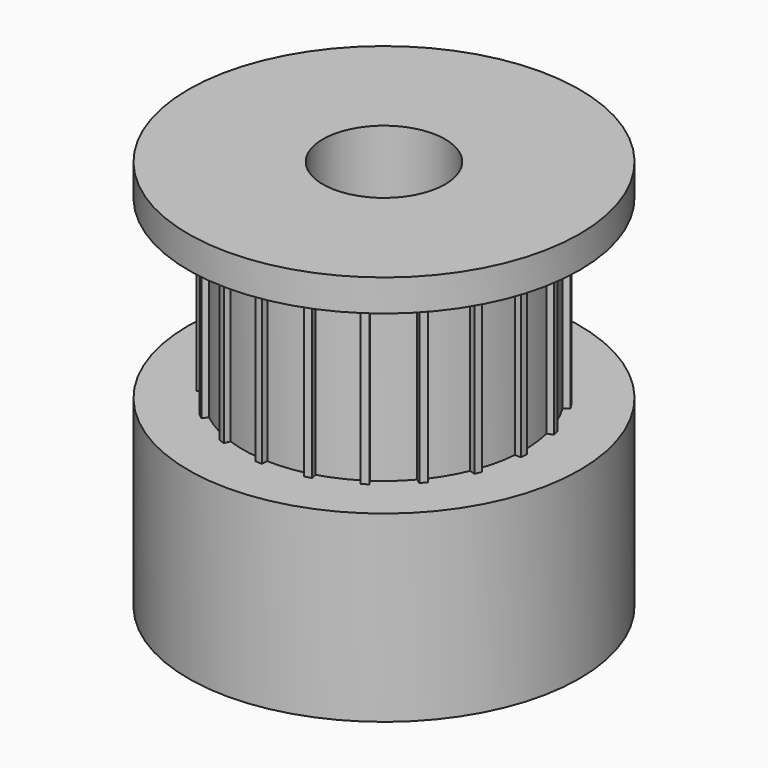
from build123d import *

# Parameters (mm, degrees)
F0_R     = 8
F0_R_2   = 2.5
F1_DEPTH = 7.5
F2_R     = 2.5
F3_DEPTH = 7.2
F4_R     = 8
F4_R_2   = 2.5
F5_DEPTH = 1.3


with BuildPart() as f1:
    # F0 (on Top) → F1 (new body)
    with BuildSketch(Plane.XY):
        Circle(F0_R)
        Circle(F0_R_2, mode=Mode.SUBTRACT)
    extrude(amount=F1_DEPTH)

    # F2 (on face) → F3 (join)
    with BuildSketch(Plane.XY.offset(7.5)):
        with BuildLine():
            Line((4.9164306089, 2.9818132181), (5.1165819993, 3.1337818439))
            ThreePointArc((5.1165819993, 3.1337818439), (5.042026432, 3.2523790461), (4.964722424, 3.3692033558))
            Line((4.964722424, 3.3692033558), (4.7530401587, 3.2359093389))
            ThreePointArc((4.7530401587, 3.2359093389), (4.2903592893, 3.8282263738), (3.7543724091, 4.3551335013))
            Line((3.7543724091, 4.3551335013), (3.8977668051, 4.5615144341))
            ThreePointArc((3.8977668051, 4.5615144341), (3.790211696, 4.6512681388), (3.6805905185, 4.7384864076))
            Line((3.6805905185, 4.7384864076), (3.5204588372, 4.5463028469))
            ThreePointArc((3.5204588372, 4.5463028469), (2.8973871515, 4.966653571), (2.2248100796, 5.3021429733))
            Line((2.2248100796, 5.3021429733), (2.2974110388, 5.5427342097))
            ThreePointArc((2.2974110388, 5.5427342097), (2.1673846314, 5.5948586988), (2.0361767688, 5.6439333949))
            Line((2.0361767688, 5.6439333949), (1.9432704762, 5.4116725563))
            ThreePointArc((1.9432704762, 5.4116725563), (1.2207985721, 5.618910112), (0.4774678383, 5.730141749))
            Line((0.4774678383, 5.730141749), (0.472168673, 5.9813925422))
            ThreePointArc((0.472168673, 5.9813925422), (0.3323988579, 5.9907855077), (0.1924478502, 5.9969128579))
            Line((0.1924478502, 5.9969128579), (0.1758612615, 5.7473100505))
            ThreePointArc((0.1758612615, 5.7473100505), (-0.5752902774, 5.7211485819), (-1.3166122817, 5.597234326))
            Line((-1.3166122817, 5.597234326), (-1.3992928524, 5.834550498))
            ThreePointArc((-1.3992928524, 5.834550498), (-1.5351244317, 5.8002924908), (-1.6701192049, 5.7628727074))
            Line((-1.6701192049, 5.7628727074), (-1.6087624789, 5.5203607932))
            ThreePointArc((-1.6087624789, 5.5203607932), (-2.3150657063, 5.2633611671), (-2.9818132181, 4.9164306089))
            Line((-2.9818132181, 4.9164306089), (-3.1337818439, 5.1165819993))
            ThreePointArc((-3.1337818439, 5.1165819993), (-3.2523790461, 5.042026432), (-3.3692033558, 4.964722424))
            Line((-3.3692033558, 4.964722424), (-3.2359093389, 4.7530401587))
            ThreePointArc((-3.2359093389, 4.7530401587), (-3.8282263738, 4.2903592893), (-4.3551335013, 3.7543724091))
            Line((-4.3551335013, 3.7543724091), (-4.5615144341, 3.8977668051))
            ThreePointArc((-4.5615144341, 3.8977668051), (-4.6512681388, 3.790211696), (-4.7384864076, 3.6805905185))
            Line((-4.7384864076, 3.6805905185), (-4.5463028469, 3.5204588372))
            ThreePointArc((-4.5463028469, 3.5204588372), (-4.966653571, 2.8973871515), (-5.3021429733, 2.2248100796))
            Line((-5.3021429733, 2.2248100796), (-5.5427342097, 2.2974110388))
            ThreePointArc((-5.5427342097, 2.2974110388), (-5.5948586988, 2.1673846314), (-5.6439333949, 2.0361767688))
            Line((-5.6439333949, 2.0361767688), (-5.4116725563, 1.9432704762))
            ThreePointArc((-5.4116725563, 1.9432704762), (-5.618910112, 1.2207985721), (-5.730141749, 0.4774678383))
            Line((-5.730141749, 0.4774678383), (-5.9813925422, 0.472168673))
            ThreePointArc((-5.9813925422, 0.472168673), (-5.9907855077, 0.3323988579), (-5.9969128579, 0.1924478502))
            Line((-5.9969128579, 0.1924478502), (-5.7473100505, 0.1758612615))
            ThreePointArc((-5.7473100505, 0.1758612615), (-5.7211485819, -0.5752902774), (-5.597234326, -1.3166122817))
            Line((-5.597234326, -1.3166122817), (-5.834550498, -1.3992928524))
            ThreePointArc((-5.834550498, -1.3992928524), (-5.8002924908, -1.5351244317), (-5.7628727074, -1.6701192049))
            Line((-5.7628727074, -1.6701192049), (-5.5203607932, -1.6087624789))
            ThreePointArc((-5.5203607932, -1.6087624789), (-5.2633611671, -2.3150657063), (-4.9164306089, -2.9818132181))
            Line((-4.9164306089, -2.9818132181), (-5.1165819993, -3.1337818439))
            ThreePointArc((-5.1165819993, -3.1337818439), (-5.042026432, -3.2523790461), (-4.964722424, -3.3692033558))
            Line((-4.964722424, -3.3692033558), (-4.7530401587, -3.2359093389))
            ThreePointArc((-4.7530401587, -3.2359093389), (-4.2903592893, -3.8282263738), (-3.7543724091, -4.3551335013))
            Line((-3.7543724091, -4.3551335013), (-3.8977668051, -4.5615144341))
            ThreePointArc((-3.8977668051, -4.5615144341), (-3.790211696, -4.6512681388), (-3.6805905185, -4.7384864076))
            Line((-3.6805905185, -4.7384864076), (-3.5204588372, -4.5463028469))
            ThreePointArc((-3.5204588372, -4.5463028469), (-2.8973871515, -4.966653571), (-2.2248100796, -5.3021429733))
            Line((-2.2248100796, -5.3021429733), (-2.2974110388, -5.5427342097))
            ThreePointArc((-2.2974110388, -5.5427342097), (-2.1673846314, -5.5948586988), (-2.0361767688, -5.6439333949))
            Line((-2.0361767688, -5.6439333949), (-1.9432704762, -5.4116725563))
            ThreePointArc((-1.9432704762, -5.4116725563), (-1.2207985721, -5.618910112), (-0.4774678383, -5.730141749))
            Line((-0.4774678383, -5.730141749), (-0.472168673, -5.9813925422))
            ThreePointArc((-0.472168673, -5.9813925422), (-0.3323988579, -5.9907855077), (-0.1924478502, -5.9969128579))
            Line((-0.1924478502, -5.9969128579), (-0.1758612615, -5.7473100505))
            ThreePointArc((-0.1758612615, -5.7473100505), (0.5752902774, -5.7211485819), (1.3166122817, -5.597234326))
            Line((1.3166122817, -5.597234326), (1.3992928524, -5.834550498))
            ThreePointArc((1.3992928524, -5.834550498), (1.5351244317, -5.8002924908), (1.6701192049, -5.7628727074))
            Line((1.6701192049, -5.7628727074), (1.6087624789, -5.5203607932))
            ThreePointArc((1.6087624789, -5.5203607932), (2.3150657063, -5.2633611671), (2.9818132181, -4.9164306089))
            Line((2.9818132181, -4.9164306089), (3.1337818439, -5.1165819993))
            ThreePointArc((3.1337818439, -5.1165819993), (3.2523790461, -5.042026432), (3.3692033558, -4.964722424))
            Line((3.3692033558, -4.964722424), (3.2359093389, -4.7530401587))
            ThreePointArc((3.2359093389, -4.7530401587), (3.8282263738, -4.2903592893), (4.3551335013, -3.7543724091))
            Line((4.3551335013, -3.7543724091), (4.5615144341, -3.8977668051))
            ThreePointArc((4.5615144341, -3.8977668051), (4.6512681388, -3.790211696), (4.7384864076, -3.6805905185))
            Line((4.7384864076, -3.6805905185), (4.5463028469, -3.5204588372))
            ThreePointArc((4.5463028469, -3.5204588372), (4.966653571, -2.8973871515), (5.3021429733, -2.2248100796))
            Line((5.3021429733, -2.2248100796), (5.5427342097, -2.2974110388))
            ThreePointArc((5.5427342097, -2.2974110388), (5.5948586988, -2.1673846314), (5.6439333949, -2.0361767688))
            Line((5.6439333949, -2.0361767688), (5.4116725563, -1.9432704762))
            ThreePointArc((5.4116725563, -1.9432704762), (5.618910112, -1.2207985721), (5.730141749, -0.4774678383))
            Line((5.730141749, -0.4774678383), (5.9813925422, -0.472168673))
            ThreePointArc((5.9813925422, -0.472168673), (5.9907855077, -0.3323988579), (5.9969128579, -0.1924478502))
            Line((5.9969128579, -0.1924478502), (5.7473100505, -0.1758612615))
            ThreePointArc((5.7473100505, -0.1758612615), (5.7211485819, 0.5752902774), (5.597234326, 1.3166122817))
            Line((5.597234326, 1.3166122817), (5.834550498, 1.3992928524))
            ThreePointArc((5.834550498, 1.3992928524), (5.8002924908, 1.5351244317), (5.7628727074, 1.6701192049))
            Line((5.7628727074, 1.6701192049), (5.5203607932, 1.6087624789))
            ThreePointArc((5.5203607932, 1.6087624789), (5.2633611671, 2.3150657063), (4.9164306089, 2.9818132181))
        make_face()
        Circle(F2_R, mode=Mode.SUBTRACT)
    extrude(amount=F3_DEPTH)

    # F4 (on face) → F5 (join)
    with BuildSketch(Plane.XY.offset(14.7)):
        Circle(F4_R)
        with BuildLine():
            ThreePointArc((-3.7543724091, -4.3551335013), (-4.2903592893, -3.8282263738), (-4.7530401587, -3.2359093389))
            Line((-4.7530401587, -3.2359093389), (-4.964722424, -3.3692033558))
            ThreePointArc((-4.964722424, -3.3692033558), (-5.042026432, -3.2523790461), (-5.1165819993, -3.1337818439))
            Line((-5.1165819993, -3.1337818439), (-4.9164306089, -2.9818132181))
            ThreePointArc((-4.9164306089, -2.9818132181), (-5.2633611671, -2.3150657063), (-5.5203607932, -1.6087624789))
            Line((-5.5203607932, -1.6087624789), (-5.7628727074, -1.6701192049))
            ThreePointArc((-5.7628727074, -1.6701192049), (-5.8002924908, -1.5351244317), (-5.834550498, -1.3992928524))
            Line((-5.834550498, -1.3992928524), (-5.597234326, -1.3166122817))
            ThreePointArc((-5.597234326, -1.3166122817), (-5.7211485819, -0.5752902774), (-5.7473100505, 0.1758612615))
            Line((-5.7473100505, 0.1758612615), (-5.9969128579, 0.1924478502))
            ThreePointArc((-5.9969128579, 0.1924478502), (-5.9907855077, 0.3323988579), (-5.9813925422, 0.472168673))
            Line((-5.9813925422, 0.472168673), (-5.730141749, 0.4774678383))
            ThreePointArc((-5.730141749, 0.4774678383), (-5.618910112, 1.2207985721), (-5.4116725563, 1.9432704762))
            Line((-5.4116725563, 1.9432704762), (-5.6439333949, 2.0361767688))
            ThreePointArc((-5.6439333949, 2.0361767688), (-5.5948586988, 2.1673846314), (-5.5427342097, 2.2974110388))
            Line((-5.5427342097, 2.2974110388), (-5.3021429733, 2.2248100796))
            ThreePointArc((-5.3021429733, 2.2248100796), (-4.966653571, 2.8973871515), (-4.5463028469, 3.5204588372))
            Line((-4.5463028469, 3.5204588372), (-4.7384864076, 3.6805905185))
            ThreePointArc((-4.7384864076, 3.6805905185), (-4.6512681388, 3.790211696), (-4.5615144341, 3.8977668051))
            Line((-4.5615144341, 3.8977668051), (-4.3551335013, 3.7543724091))
            ThreePointArc((-4.3551335013, 3.7543724091), (-3.8282263738, 4.2903592893), (-3.2359093389, 4.7530401587))
            Line((-3.2359093389, 4.7530401587), (-3.3692033558, 4.964722424))
            ThreePointArc((-3.3692033558, 4.964722424), (-3.2523790461, 5.042026432), (-3.1337818439, 5.1165819993))
            Line((-3.1337818439, 5.1165819993), (-2.9818132181, 4.9164306089))
            ThreePointArc((-2.9818132181, 4.9164306089), (-2.3150657063, 5.2633611671), (-1.6087624789, 5.5203607932))
            Line((-1.6087624789, 5.5203607932), (-1.6701192049, 5.7628727074))
            ThreePointArc((-1.6701192049, 5.7628727074), (-1.5351244317, 5.8002924908), (-1.3992928524, 5.834550498))
            Line((-1.3992928524, 5.834550498), (-1.3166122817, 5.597234326))
            ThreePointArc((-1.3166122817, 5.597234326), (-0.5752902774, 5.7211485819), (0.1758612615, 5.7473100505))
            Line((0.1758612615, 5.7473100505), (0.1924478502, 5.9969128579))
            ThreePointArc((0.1924478502, 5.9969128579), (0.3323988579, 5.9907855077), (0.472168673, 5.9813925422))
            Line((0.472168673, 5.9813925422), (0.4774678383, 5.730141749))
            ThreePointArc((0.4774678383, 5.730141749), (1.2207985721, 5.618910112), (1.9432704762, 5.4116725563))
            Line((1.9432704762, 5.4116725563), (2.0361767688, 5.6439333949))
            ThreePointArc((2.0361767688, 5.6439333949), (2.1673846314, 5.5948586988), (2.2974110388, 5.5427342097))
            Line((2.2974110388, 5.5427342097), (2.2248100796, 5.3021429733))
            ThreePointArc((2.2248100796, 5.3021429733), (2.8973871515, 4.966653571), (3.5204588372, 4.5463028469))
            Line((3.5204588372, 4.5463028469), (3.6805905185, 4.7384864076))
            ThreePointArc((3.6805905185, 4.7384864076), (3.790211696, 4.6512681388), (3.8977668051, 4.5615144341))
            Line((3.8977668051, 4.5615144341), (3.7543724091, 4.3551335013))
            ThreePointArc((3.7543724091, 4.3551335013), (4.2903592893, 3.8282263738), (4.7530401587, 3.2359093389))
            Line((4.7530401587, 3.2359093389), (4.964722424, 3.3692033558))
            ThreePointArc((4.964722424, 3.3692033558), (5.042026432, 3.2523790461), (5.1165819993, 3.1337818439))
            Line((5.1165819993, 3.1337818439), (4.9164306089, 2.9818132181))
            ThreePointArc((4.9164306089, 2.9818132181), (5.2633611671, 2.3150657063), (5.5203607932, 1.6087624789))
            Line((5.5203607932, 1.6087624789), (5.7628727074, 1.6701192049))
            ThreePointArc((5.7628727074, 1.6701192049), (5.8002924908, 1.5351244317), (5.834550498, 1.3992928524))
            Line((5.834550498, 1.3992928524), (5.597234326, 1.3166122817))
            ThreePointArc((5.597234326, 1.3166122817), (5.7211485819, 0.5752902774), (5.7473100505, -0.1758612615))
            Line((5.7473100505, -0.1758612615), (5.9969128579, -0.1924478502))
            ThreePointArc((5.9969128579, -0.1924478502), (5.9907855077, -0.3323988579), (5.9813925422, -0.472168673))
            Line((5.9813925422, -0.472168673), (5.730141749, -0.4774678383))
            ThreePointArc((5.730141749, -0.4774678383), (5.618910112, -1.2207985721), (5.4116725563, -1.9432704762))
            Line((5.4116725563, -1.9432704762), (5.6439333949, -2.0361767688))
            ThreePointArc((5.6439333949, -2.0361767688), (5.5948586988, -2.1673846314), (5.5427342097, -2.2974110388))
            Line((5.5427342097, -2.2974110388), (5.3021429733, -2.2248100796))
            ThreePointArc((5.3021429733, -2.2248100796), (4.966653571, -2.8973871515), (4.5463028469, -3.5204588372))
            Line((4.5463028469, -3.5204588372), (4.7384864076, -3.6805905185))
            ThreePointArc((4.7384864076, -3.6805905185), (4.6512681388, -3.790211696), (4.5615144341, -3.8977668051))
            Line((4.5615144341, -3.8977668051), (4.3551335013, -3.7543724091))
            ThreePointArc((4.3551335013, -3.7543724091), (3.8282263738, -4.2903592893), (3.2359093389, -4.7530401587))
            Line((3.2359093389, -4.7530401587), (3.3692033558, -4.964722424))
            ThreePointArc((3.3692033558, -4.964722424), (3.2523790461, -5.042026432), (3.1337818439, -5.1165819993))
            Line((3.1337818439, -5.1165819993), (2.9818132181, -4.9164306089))
            ThreePointArc((2.9818132181, -4.9164306089), (2.3150657063, -5.2633611671), (1.6087624789, -5.5203607932))
            Line((1.6087624789, -5.5203607932), (1.6701192049, -5.7628727074))
            ThreePointArc((1.6701192049, -5.7628727074), (1.5351244317, -5.8002924908), (1.3992928524, -5.834550498))
            Line((1.3992928524, -5.834550498), (1.3166122817, -5.597234326))
            ThreePointArc((1.3166122817, -5.597234326), (0.5752902774, -5.7211485819), (-0.1758612615, -5.7473100505))
            Line((-0.1758612615, -5.7473100505), (-0.1924478502, -5.9969128579))
            ThreePointArc((-0.1924478502, -5.9969128579), (-0.3323988579, -5.9907855077), (-0.472168673, -5.9813925422))
            Line((-0.472168673, -5.9813925422), (-0.4774678383, -5.730141749))
            ThreePointArc((-0.4774678383, -5.730141749), (-1.2207985721, -5.618910112), (-1.9432704762, -5.4116725563))
            Line((-1.9432704762, -5.4116725563), (-2.0361767688, -5.6439333949))
            ThreePointArc((-2.0361767688, -5.6439333949), (-2.1673846314, -5.5948586988), (-2.2974110388, -5.5427342097))
            Line((-2.2974110388, -5.5427342097), (-2.2248100796, -5.3021429733))
            ThreePointArc((-2.2248100796, -5.3021429733), (-2.8973871515, -4.966653571), (-3.5204588372, -4.5463028469))
            Line((-3.5204588372, -4.5463028469), (-3.6805905185, -4.7384864076))
            ThreePointArc((-3.6805905185, -4.7384864076), (-3.790211696, -4.6512681388), (-3.8977668051, -4.5615144341))
            Line((-3.8977668051, -4.5615144341), (-3.7543724091, -4.3551335013))
        make_face(mode=Mode.SUBTRACT)
        with BuildLine():
            Line((-4.964722424, -3.3692033558), (-4.7530401587, -3.2359093389))
            ThreePointArc((-4.7530401587, -3.2359093389), (-4.2903592893, -3.8282263738), (-3.7543724091, -4.3551335013))
            Line((-3.7543724091, -4.3551335013), (-3.8977668051, -4.5615144341))
            ThreePointArc((-3.8977668051, -4.5615144341), (-3.790211696, -4.6512681388), (-3.6805905185, -4.7384864076))
            Line((-3.6805905185, -4.7384864076), (-3.5204588372, -4.5463028469))
            ThreePointArc((-3.5204588372, -4.5463028469), (-2.8973871515, -4.966653571), (-2.2248100796, -5.3021429733))
            Line((-2.2248100796, -5.3021429733), (-2.2974110388, -5.5427342097))
            ThreePointArc((-2.2974110388, -5.5427342097), (-2.1673846314, -5.5948586988), (-2.0361767688, -5.6439333949))
            Line((-2.0361767688, -5.6439333949), (-1.9432704762, -5.4116725563))
            ThreePointArc((-1.9432704762, -5.4116725563), (-1.2207985721, -5.618910112), (-0.4774678383, -5.730141749))
            Line((-0.4774678383, -5.730141749), (-0.472168673, -5.9813925422))
            ThreePointArc((-0.472168673, -5.9813925422), (-0.3323988579, -5.9907855077), (-0.1924478502, -5.9969128579))
            Line((-0.1924478502, -5.9969128579), (-0.1758612615, -5.7473100505))
            ThreePointArc((-0.1758612615, -5.7473100505), (0.5752902774, -5.7211485819), (1.3166122817, -5.597234326))
            Line((1.3166122817, -5.597234326), (1.3992928524, -5.834550498))
            ThreePointArc((1.3992928524, -5.834550498), (1.5351244317, -5.8002924908), (1.6701192049, -5.7628727074))
            Line((1.6701192049, -5.7628727074), (1.6087624789, -5.5203607932))
            ThreePointArc((1.6087624789, -5.5203607932), (2.3150657063, -5.2633611671), (2.9818132181, -4.9164306089))
            Line((2.9818132181, -4.9164306089), (3.1337818439, -5.1165819993))
            ThreePointArc((3.1337818439, -5.1165819993), (3.2523790461, -5.042026432), (3.3692033558, -4.964722424))
            Line((3.3692033558, -4.964722424), (3.2359093389, -4.7530401587))
            ThreePointArc((3.2359093389, -4.7530401587), (3.8282263738, -4.2903592893), (4.3551335013, -3.7543724091))
            Line((4.3551335013, -3.7543724091), (4.5615144341, -3.8977668051))
            ThreePointArc((4.5615144341, -3.8977668051), (4.6512681388, -3.790211696), (4.7384864076, -3.6805905185))
            Line((4.7384864076, -3.6805905185), (4.5463028469, -3.5204588372))
            ThreePointArc((4.5463028469, -3.5204588372), (4.966653571, -2.8973871515), (5.3021429733, -2.2248100796))
            Line((5.3021429733, -2.2248100796), (5.5427342097, -2.2974110388))
            ThreePointArc((5.5427342097, -2.2974110388), (5.5948586988, -2.1673846314), (5.6439333949, -2.0361767688))
            Line((5.6439333949, -2.0361767688), (5.4116725563, -1.9432704762))
            ThreePointArc((5.4116725563, -1.9432704762), (5.618910112, -1.2207985721), (5.730141749, -0.4774678383))
            Line((5.730141749, -0.4774678383), (5.9813925422, -0.472168673))
            ThreePointArc((5.9813925422, -0.472168673), (5.9907855077, -0.3323988579), (5.9969128579, -0.1924478502))
            Line((5.9969128579, -0.1924478502), (5.7473100505, -0.1758612615))
            ThreePointArc((5.7473100505, -0.1758612615), (5.7211485819, 0.5752902774), (5.597234326, 1.3166122817))
            Line((5.597234326, 1.3166122817), (5.834550498, 1.3992928524))
            ThreePointArc((5.834550498, 1.3992928524), (5.8002924908, 1.5351244317), (5.7628727074, 1.6701192049))
            Line((5.7628727074, 1.6701192049), (5.5203607932, 1.6087624789))
            ThreePointArc((5.5203607932, 1.6087624789), (5.2633611671, 2.3150657063), (4.9164306089, 2.9818132181))
            Line((4.9164306089, 2.9818132181), (5.1165819993, 3.1337818439))
            ThreePointArc((5.1165819993, 3.1337818439), (5.042026432, 3.2523790461), (4.964722424, 3.3692033558))
            Line((4.964722424, 3.3692033558), (4.7530401587, 3.2359093389))
            ThreePointArc((4.7530401587, 3.2359093389), (4.2903592893, 3.8282263738), (3.7543724091, 4.3551335013))
            Line((3.7543724091, 4.3551335013), (3.8977668051, 4.5615144341))
            ThreePointArc((3.8977668051, 4.5615144341), (3.790211696, 4.6512681388), (3.6805905185, 4.7384864076))
            Line((3.6805905185, 4.7384864076), (3.5204588372, 4.5463028469))
            ThreePointArc((3.5204588372, 4.5463028469), (2.8973871515, 4.966653571), (2.2248100796, 5.3021429733))
            Line((2.2248100796, 5.3021429733), (2.2974110388, 5.5427342097))
            ThreePointArc((2.2974110388, 5.5427342097), (2.1673846314, 5.5948586988), (2.0361767688, 5.6439333949))
            Line((2.0361767688, 5.6439333949), (1.9432704762, 5.4116725563))
            ThreePointArc((1.9432704762, 5.4116725563), (1.2207985721, 5.618910112), (0.4774678383, 5.730141749))
            Line((0.4774678383, 5.730141749), (0.472168673, 5.9813925422))
            ThreePointArc((0.472168673, 5.9813925422), (0.3323988579, 5.9907855077), (0.1924478502, 5.9969128579))
            Line((0.1924478502, 5.9969128579), (0.1758612615, 5.7473100505))
            ThreePointArc((0.1758612615, 5.7473100505), (-0.5752902774, 5.7211485819), (-1.3166122817, 5.597234326))
            Line((-1.3166122817, 5.597234326), (-1.3992928524, 5.834550498))
            ThreePointArc((-1.3992928524, 5.834550498), (-1.5351244317, 5.8002924908), (-1.6701192049, 5.7628727074))
            Line((-1.6701192049, 5.7628727074), (-1.6087624789, 5.5203607932))
            ThreePointArc((-1.6087624789, 5.5203607932), (-2.3150657063, 5.2633611671), (-2.9818132181, 4.9164306089))
            Line((-2.9818132181, 4.9164306089), (-3.1337818439, 5.1165819993))
            ThreePointArc((-3.1337818439, 5.1165819993), (-3.2523790461, 5.042026432), (-3.3692033558, 4.964722424))
            Line((-3.3692033558, 4.964722424), (-3.2359093389, 4.7530401587))
            ThreePointArc((-3.2359093389, 4.7530401587), (-3.8282263738, 4.2903592893), (-4.3551335013, 3.7543724091))
            Line((-4.3551335013, 3.7543724091), (-4.5615144341, 3.8977668051))
            ThreePointArc((-4.5615144341, 3.8977668051), (-4.6512681388, 3.790211696), (-4.7384864076, 3.6805905185))
            Line((-4.7384864076, 3.6805905185), (-4.5463028469, 3.5204588372))
            ThreePointArc((-4.5463028469, 3.5204588372), (-4.966653571, 2.8973871515), (-5.3021429733, 2.2248100796))
            Line((-5.3021429733, 2.2248100796), (-5.5427342097, 2.2974110388))
            ThreePointArc((-5.5427342097, 2.2974110388), (-5.5948586988, 2.1673846314), (-5.6439333949, 2.0361767688))
            Line((-5.6439333949, 2.0361767688), (-5.4116725563, 1.9432704762))
            ThreePointArc((-5.4116725563, 1.9432704762), (-5.618910112, 1.2207985721), (-5.730141749, 0.4774678383))
            Line((-5.730141749, 0.4774678383), (-5.9813925422, 0.472168673))
            ThreePointArc((-5.9813925422, 0.472168673), (-5.9907855077, 0.3323988579), (-5.9969128579, 0.1924478502))
            Line((-5.9969128579, 0.1924478502), (-5.7473100505, 0.1758612615))
            ThreePointArc((-5.7473100505, 0.1758612615), (-5.7211485819, -0.5752902774), (-5.597234326, -1.3166122817))
            Line((-5.597234326, -1.3166122817), (-5.834550498, -1.3992928524))
            ThreePointArc((-5.834550498, -1.3992928524), (-5.8002924908, -1.5351244317), (-5.7628727074, -1.6701192049))
            Line((-5.7628727074, -1.6701192049), (-5.5203607932, -1.6087624789))
            ThreePointArc((-5.5203607932, -1.6087624789), (-5.2633611671, -2.3150657063), (-4.9164306089, -2.9818132181))
            Line((-4.9164306089, -2.9818132181), (-5.1165819993, -3.1337818439))
            ThreePointArc((-5.1165819993, -3.1337818439), (-5.042026432, -3.2523790461), (-4.964722424, -3.3692033558))
        make_face()
        Circle(F4_R_2, mode=Mode.SUBTRACT)
    extrude(amount=F5_DEPTH)


solid = f1.part
